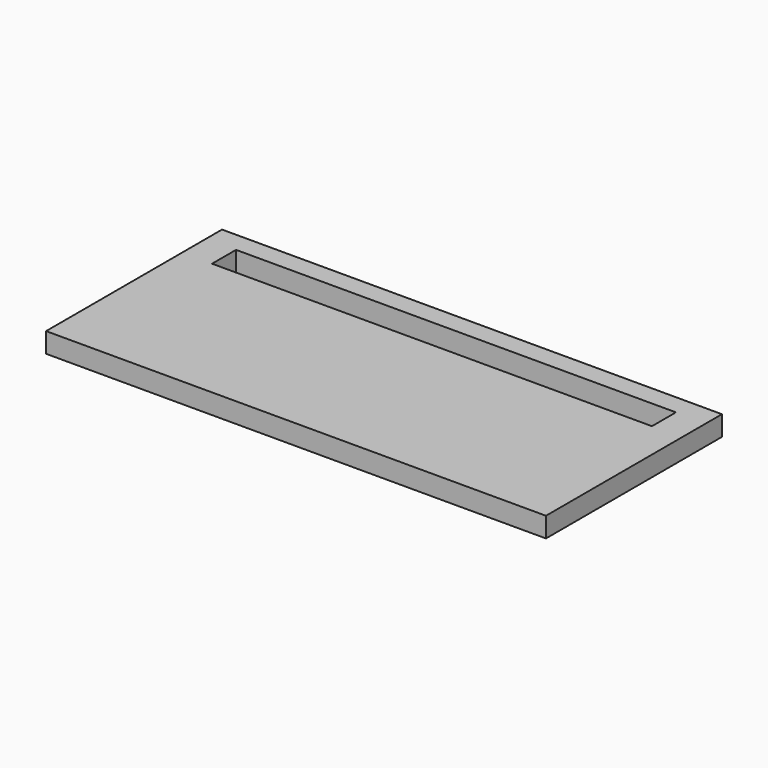
from build123d import *

# Parameters (mm, degrees)
BOX157_W     = 22
BOX157_H     = 1.5
BOX157_DEPTH = 2
BOX155_W     = 25
BOX155_H     = 11
BOX155_DEPTH = 1


with BuildPart() as longledhole013:
    # Box157 → Box157 (new body)
    with BuildSketch(Plane(origin=(1.5, 8.5, 0), x_dir=(1, 0, 0), z_dir=(0, 0, 1))):
        with Locations((11, 0.75)):
            Rectangle(BOX157_W, BOX157_H)
    extrude(amount=BOX157_DEPTH)


with BuildPart() as cut030:
    # Box155 → Box155 (new body)
    with BuildSketch(Plane.XY):
        with Locations((12.5, 5.5)):
            Rectangle(BOX155_W, BOX155_H)
    extrude(amount=BOX155_DEPTH)

    # Cut030: cut LongLedHole013
    add(longledhole013.part, mode=Mode.SUBTRACT)


solid = cut030.part
